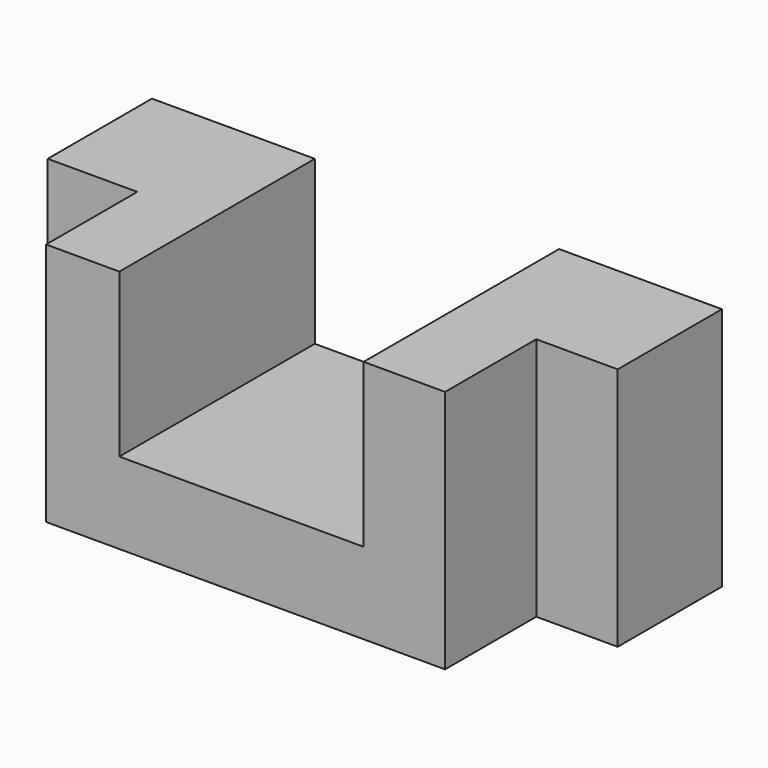
from build123d import *

# Parameters (mm, degrees)
F1_DEPTH = 30
F0_W     = 10
F0_H     = 30
F0_W_2   = 11
F2_DEPTH = 16


with BuildPart() as f1:
    # F0 (on Front) → F1 (new body)
    with BuildSketch(Plane.XZ):
        Polygon((-24, 0), (0, 0), (25, 0), (25, 30), (15, 30), (15, 10), (-15, 10), (-15, 30), (-24, 30), align=None)
    extrude(amount=F1_DEPTH)

    # F0 (on Front) → F2 (join)
    with BuildSketch(Plane.XZ):
        Polygon((-24, 0), (0, 0), (25, 0), (25, 30), (15, 30), (15, 10), (-15, 10), (-15, 30), (-24, 30), align=None)
        with Locations((30, 15)):
            Rectangle(F0_W, F0_H)
        with Locations((-29.5, 15)):
            Rectangle(F0_W_2, F0_H)
    extrude(amount=F2_DEPTH)


solid = f1.part
